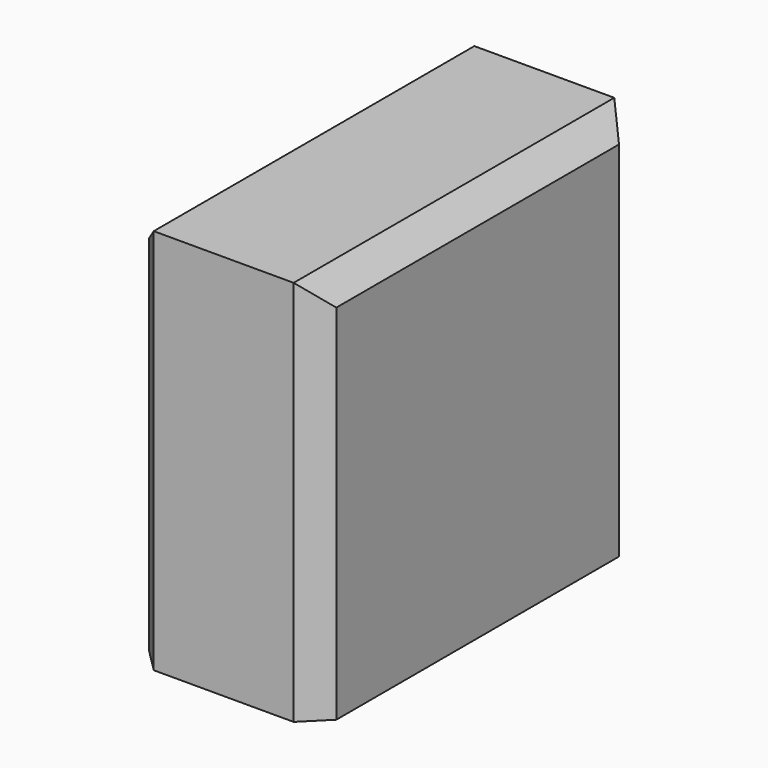
from build123d import *

# Parameters (mm, degrees)
F0_W     = 200.66
F0_H     = 429.26
F1_DEPTH = 414.02
F2_SIZE  = 25.4


with BuildPart() as f1:
    # F0 (on Top) → F1 (new body)
    with BuildSketch(Plane.XY):
        Rectangle(F0_W, F0_H)
    extrude(amount=F1_DEPTH)

    # F2
    f2_edges = [f1.edges().sort_by_distance(p)[0] for p in [
        (100.33, 0, 414.02),
        (-100.33, 0, 414.02),
        (100.33, -214.63, 207.01),
        (100.33, 214.63, 207.01),
        (-100.33, -214.63, 207.01),
        (-100.33, 214.63, 207.01),
    ]]
    chamfer(f2_edges, length=F2_SIZE)


solid = f1.part
